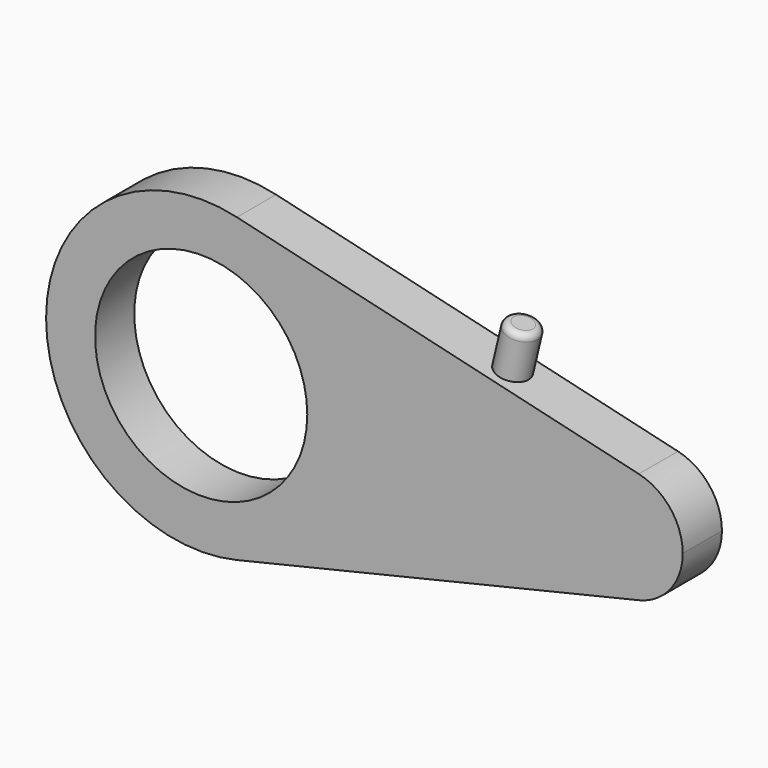
from build123d import *

# Parameters (mm, degrees)
F0_R     = 32.5
F1_DEPTH = 15
F2_R     = 5
F3_DEPTH = 14
F4_R     = 2


with BuildPart() as f1:
    # F0 (on Front) → F1 (new body)
    with BuildSketch(Plane.XZ):
        with BuildLine():
            ThreePointArc((10.9615384615, -46.217904264), (37.2620656763, -29.4582494649), (47.5, 0))
            ThreePointArc((47.5, 0), (37.2620656763, 29.4582494649), (10.9615384615, 46.217904264))
            ThreePointArc((10.9615384615, 46.217904264), (-47.5, 0), (10.9615384615, -46.217904264))
        make_face()
        Circle(F0_R, mode=Mode.SUBTRACT)
        with BuildLine():
            ThreePointArc((10.9615384615, 46.217904264), (37.2620656763, 29.4582494649), (47.5, 0))
            ThreePointArc((47.5, 0), (37.2620656763, -29.4582494649), (10.9615384615, -46.217904264))
            Line((10.9615384615, -46.217904264), (134.0384615385, -17.0276489394))
            ThreePointArc((134.0384615385, -17.0276489394), (112.5, 0), (134.0384615385, 17.0276489394))
            Line((134.0384615385, 17.0276489394), (10.9615384615, 46.217904264))
        make_face()
        with BuildLine():
            ThreePointArc((147.5, 0), (143.7281294597, 10.8530392766), (134.0384615385, 17.0276489394))
            ThreePointArc((134.0384615385, 17.0276489394), (112.5, 0), (134.0384615385, -17.0276489394))
            ThreePointArc((134.0384615385, -17.0276489394), (143.7281294597, -10.8530392766), (147.5, 0))
        make_face()
    extrude(amount=-F1_DEPTH)

    # F2 (on face) → F3 (join)
    with BuildSketch(Plane(origin=(10.9615384615, 0, 46.217904264), x_dir=(0.9730085108, 0, -0.2307692308), z_dir=(0.2307692308, 0, 0.9730085108))):
        with Locations((80.6287527084, 7.5)):
            Circle(F2_R)
    extrude(amount=F3_DEPTH)

    # F4
    f4_edges = [f1.edges().sort_by_distance(p)[0] for p in [
        (87.779728, 7.5, 42.387234),
    ]]
    fillet(f4_edges, radius=F4_R)


solid = f1.part
